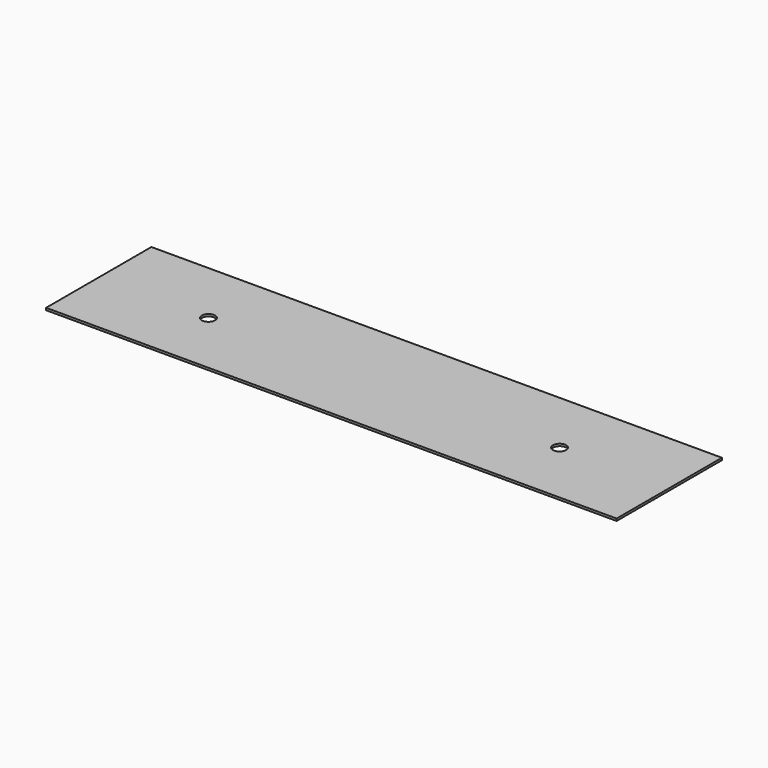
from build123d import *

# Parameters (mm, degrees)
SKETCH_W  = 130
SKETCH_H  = 30
SKETCH_R  = 1.5
PAD_DEPTH = 0.5


with BuildPart() as part:
    # Sketch → Pad (new body)
    with BuildSketch(Plane.XY):
        with Locations((65, 15)):
            Rectangle(SKETCH_W, SKETCH_H)
        with Locations((25, 15)):
            Circle(SKETCH_R, mode=Mode.SUBTRACT)
        with Locations((105, 15)):
            Circle(SKETCH_R, mode=Mode.SUBTRACT)
    extrude(amount=PAD_DEPTH)


solid = part.part
